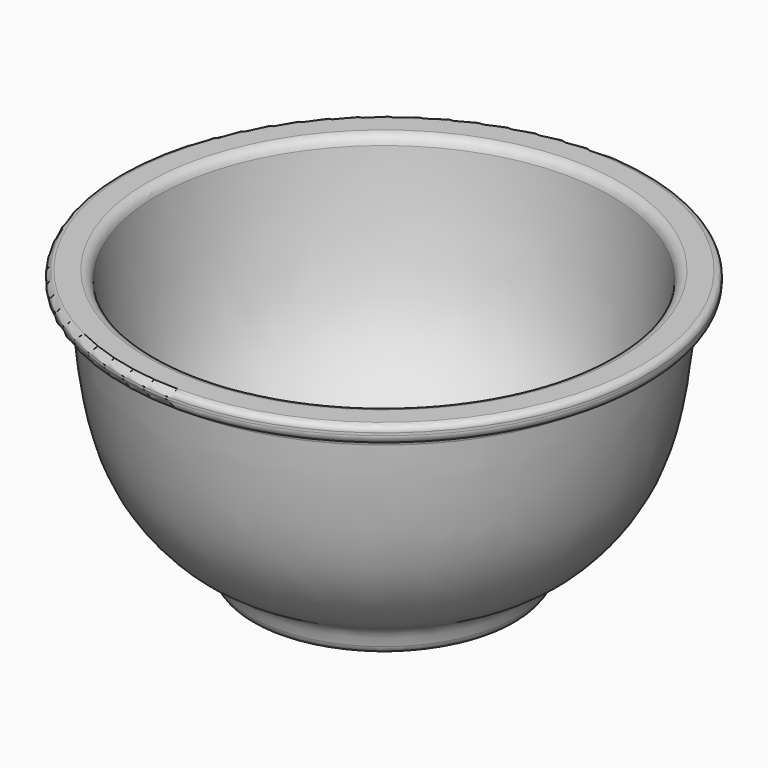
from build123d import *

# Parameters (mm, degrees)
F2_R           = 5.08
F3_R           = 3.2512
F5_D           = 4.4958
F5_CSINK_D     = 9.1186
F5_CSINK_ANGLE = 82


with BuildPart() as f1:
    # F0 (on Front) → F1 (revolve)
    with BuildSketch(Plane.XZ):
        with BuildLine():
            Line((0.9152207136, -43.5220532644), (19.9652207136, -43.5220532644))
            Line((19.9652207136, -43.5220532644), (19.9652207136, -32.6527277488))
            Line((19.9652207136, -32.6527277488), (0.9152207136, -32.6527277488))
            Line((0.9152207136, -32.6527277488), (0.9152207136, -19.9527277488))
            add(Edge.make_bspline(
                [(-62.5847792864, 96.1779467356), (-62.1273586812, 90.4289842585), (-60.6657315721, 75.8002662692), (-53.0016938598, 29.7824055739), (-36.7212214833, 0.2886026592), (-18.2388185887, -16.0735793184), (0.9152207136, -19.9527277488)],
                knots=[0, 0, 0, 0, 0.1900013952, 0.4784073501, 0.7223029443, 1, 1, 1, 1], degree=3))
            Line((-62.5847792864, 96.1779467356), (-81.6347792864, 96.1779467356))
            Line((-81.6347792864, 96.1779467356), (-81.6347792864, 86.5259467356))
            Line((-81.6347792864, 86.5259467356), (-71.4747792864, 86.5259467356))
            add(Edge.make_bspline(
                [(-11.7847792864, -46.7732532644), (-12.6107709249, -42.6351142717), (-13.5852987582, -32.0843669606), (-30.6445233864, -27.2081932467), (-59.948821028, 5.3131029198), (-68.8402245295, 50.3901015951), (-70.7963764657, 75.0445767128), (-71.4747792864, 86.5259467356)],
                knots=[0, 0, 0, 0, 0.1341554781, 0.2807026063, 0.5221953974, 0.7766410784, 1, 1, 1, 1], degree=3))
            Line((-11.7847792864, -46.7732532644), (0.9152207136, -46.7732532644))
            Line((0.9152207136, -46.7732532644), (0.9152207136, -43.5220532644))
        make_face()
    revolve(axis=Axis((58.0652207136, 0, 32.3201363683), (0, 0, -1)))

    # F2
    f2_edges = [f1.edges().sort_by_distance(p)[0] for p in [
        (197.765221, 0, 86.525947),
        (187.605221, 0, 86.525947),
        (178.715221, 0, 96.177947),
        (127.915221, 0, -46.773253),
    ]]
    fillet(f2_edges, radius=F2_R)

    # F3
    f3_edges = [f1.edges().sort_by_distance(p)[0] for p in [
        (197.765221, 0, 96.177947),
    ]]
    fillet(f3_edges, radius=F3_R)

    # F5 (through all)
    with Locations(Plane(origin=(0, 0, -43.5220532644), x_dir=(1, 0, 0), z_dir=(0, 0, -1))):
        with Locations((11.0116121808, 0), (81.59202498, 40.7496203291), (81.59202498, -40.7496203291)):
            CounterSinkHole(F5_D / 2, F5_CSINK_D / 2, counter_sink_angle=F5_CSINK_ANGLE)


solid = f1.part
